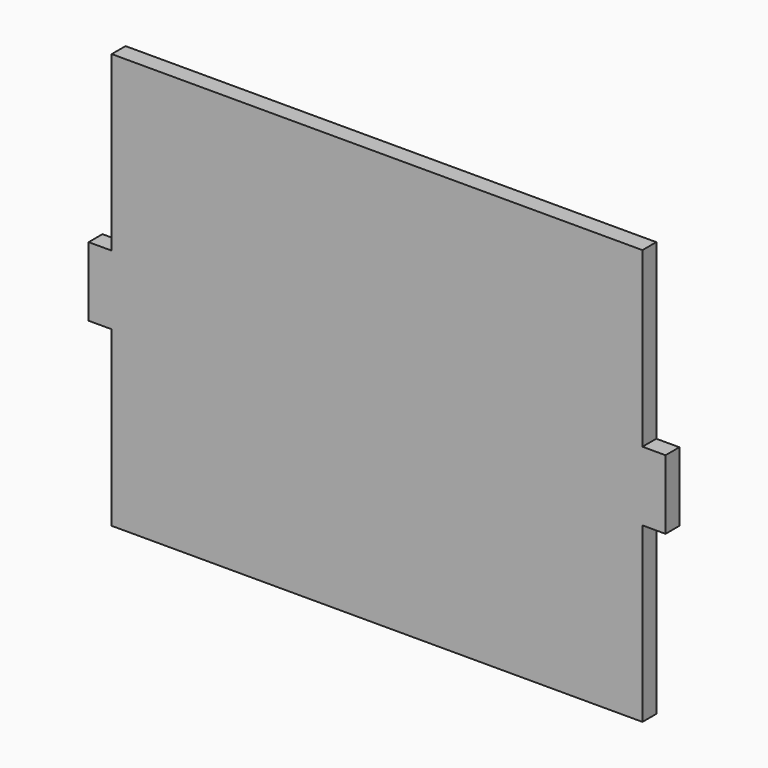
from build123d import *

# Parameters (mm, degrees)
F1_DEPTH = 19.05


with BuildPart() as f1:
    # F0 (on Front) → F1 (new body)
    with BuildSketch(Plane.XZ):
        Polygon((203.910831, 97.620917), (-380.289169, 97.620917), (-380.289169, -92.879083), (-380.289169, -169.079083), (-380.289169, -359.579083), (203.910831, -359.579083), (203.910831, -169.079083), (203.910831, -92.879083), align=None)
        Polygon((-380.289169, -169.079083), (-380.289169, -92.879083), (-405.689169, -92.879083), (-405.689169, -130.979083), (-405.689169, -169.079083), align=None)
        Polygon((229.310831, -92.879083), (203.910831, -92.879083), (203.910831, -169.079083), (229.310831, -169.079083), (229.310831, -130.979083), align=None)
    extrude(amount=F1_DEPTH)


solid = f1.part
